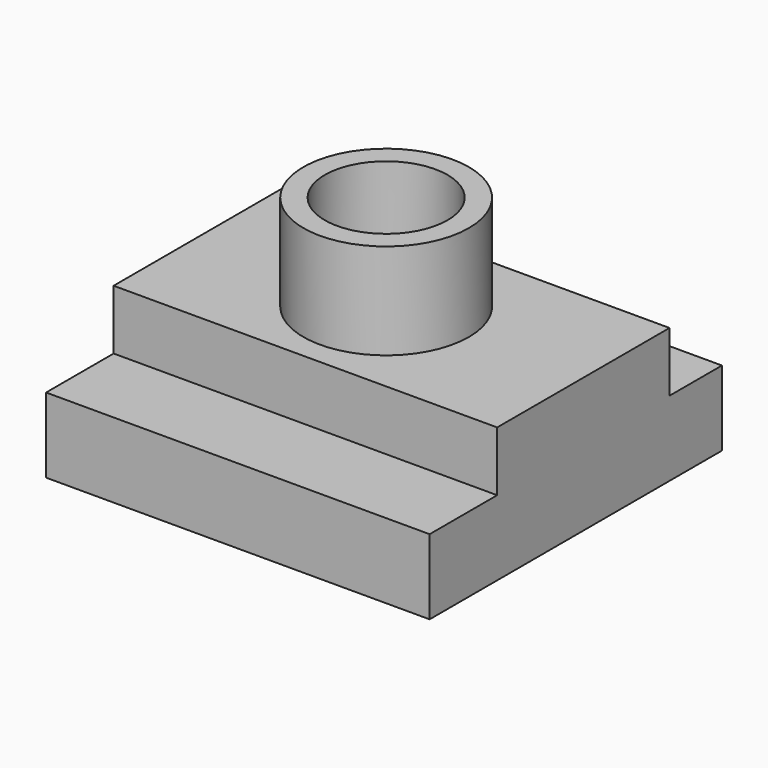
from build123d import *

# Parameters (mm, degrees)
F1_DEPTH      = 25.4
F2_DEPTH      = 25.4
F3_DEPTH      = 25.4
F4_DEPTH      = 25.4
F6_R          = 21.9155867699
F6_R_2        = 16.2549330377
F7_DEPTH      = 25.4
F7_DEPTH_BACK = 25.4


with BuildPart() as f1:
    # F0 (on Right) → F1 (new body)
    with BuildSketch(Plane.YZ):
        Polygon((-50.3195412457, 0), (0, 0), (46.4636348188, 0), (46.4636348188, 19.8579039425), (29.1120689362, 19.8579039425), (29.1120689362, 35.6671102345), (-27.955301106, 35.6671102345), (-27.955301106, 19.8579039425), (-50.3195412457, 19.8579039425), align=None)
    extrude(amount=F1_DEPTH)

    # F2 (add): a face of the model
    f2_faces = [f1.faces().sort_by_distance(p)[0] for p in [
        (25.4, -1.1272764722, 15.6260757274),
    ]]
    extrude(f2_faces, amount=F2_DEPTH)

    # F3 (add): a face of the model
    f3_faces = [f1.faces().sort_by_distance(p)[0] for p in [
        (50.8, -1.1272764722, 15.6260757274),
    ]]
    extrude(f3_faces, amount=F3_DEPTH)

    # F4 (add): a face of the model
    f4_faces = [f1.faces().sort_by_distance(p)[0] for p in [
        (76.2, -1.1272764722, 15.6260757274),
    ]]
    extrude(f4_faces, amount=F4_DEPTH)

    # F6 (on face) → F7 (join, two sides)
    with BuildSketch(Plane.XY.offset(35.6671102345)) as f7_sk:
        with Locations((49.8246699572, 0)):
            Circle(F6_R)
        with Locations((49.8246699572, 0)):
            Circle(F6_R_2, mode=Mode.SUBTRACT)
    extrude(amount=F7_DEPTH)
    extrude(f7_sk.sketch, amount=-F7_DEPTH_BACK)


solid = f1.part
